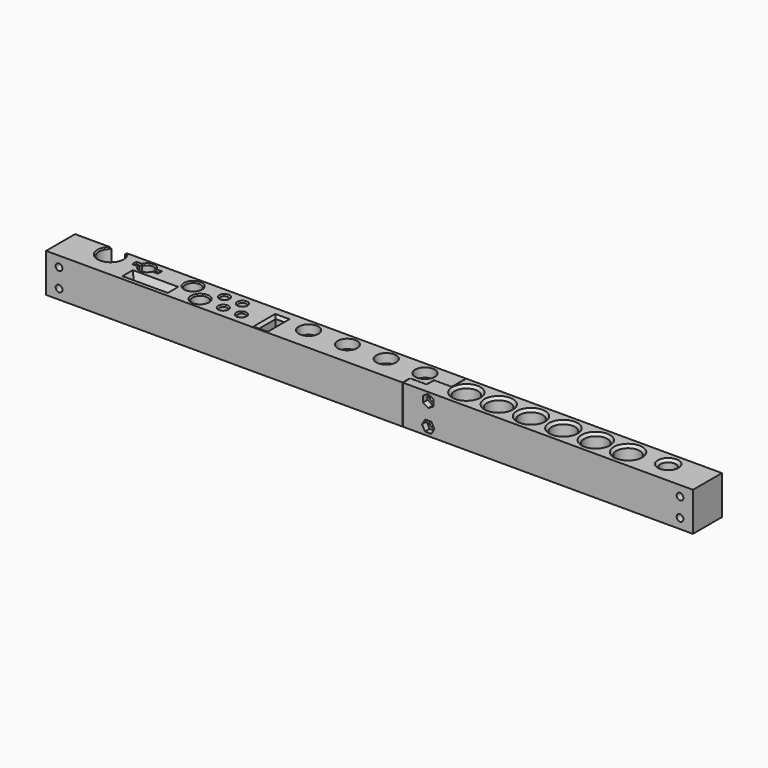
from build123d import *

# Parameters (mm, degrees)
F0_W      = 27
F0_H      = 2
F0_R      = 6
F0_R_2    = 3
F0_W_2    = 7
F0_H_2    = 17
F0_R_3    = 9
F0_W_3    = 18
F0_R_4    = 2.5
F1_DEPTH  = 30
F2_R      = 2.6
F3_DEPTH  = 28.001
F2_R_2    = 5.2
F4_DEPTH  = 8
F6_DEPTH  = 12
F5_R      = 7.625
F5_R_2    = 2.5
F7_DEPTH  = 7
F8_SIZE   = 2
F9_SIZE   = 1
F10_SIZE2 = 7
F10_SIZE  = 4.0414518843
F12_DEPTH = 30.001
F15_DEPTH = 4.5
F16_R     = 2.5
F17_DEPTH = 28.001
F13_R     = 5.125
F18_DEPTH = 6
F19_R     = 6
F19_R_2   = 3
F20_DEPTH = 1


with BuildPart() as f1:
    # F0 (on Top) → F1 (new body)
    with BuildSketch(Plane.XY):
        with BuildLine():
            Line((250, 0), (0, 0))
            Line((0, 0), (-211.3161643313, 0))
            ThreePointArc((-211.3161643313, 0), (-216.5275365114, -16.56), (-221.7389086916, 0))
            Line((-221.7389086916, 0), (-250, 0))
            Line((-250, 0), (-250, -28))
            Line((-250, -28), (0, -28))
            Line((0, -28), (250, -28))
            Line((250, -28), (250, 0))
        make_face()
        with Locations((-175.8192131519, -20)):
            Rectangle(F0_W, F0_H, mode=Mode.SUBTRACT)
        with Locations((-138.061195612, -19.0923716873)):
            Circle(F0_R, mode=Mode.SUBTRACT)
        with Locations((-120.0379803777, -19.2101737484)):
            Circle(F0_R_2, mode=Mode.SUBTRACT)
        with Locations((-106.0379803777, -19.2101737484)):
            Circle(F0_R_2, mode=Mode.SUBTRACT)
        with Locations((-84.9815678, -16.5)):
            Rectangle(F0_W_2, F0_H_2, mode=Mode.SUBTRACT)
        with Locations((63.6802911758, -14.0222376212)):
            Circle(F0_R_3, mode=Mode.SUBTRACT)
        with Locations((88.6802911758, -14.0222376212)):
            Circle(F0_R_3, mode=Mode.SUBTRACT)
        with Locations((113.6802911758, -14.0222376212)):
            Circle(F0_R_3, mode=Mode.SUBTRACT)
        with Locations((138.6802911758, -14.0222376212)):
            Circle(F0_R_3, mode=Mode.SUBTRACT)
        with Locations((163.6802911758, -14.0222376212)):
            Circle(F0_R_3, mode=Mode.SUBTRACT)
        with Locations((188.6802911758, -14.0222376212)):
            Circle(F0_R_3, mode=Mode.SUBTRACT)
        with Locations((-188.6019822359, -7.1446347758)):
            Rectangle(F0_W_3, F0_H, mode=Mode.SUBTRACT)
        with Locations((-151.8436670303, -8.6082769558)):
            Circle(F0_R, mode=Mode.SUBTRACT)
        with Locations((-128.2839030027, -7.9014841467)):
            Circle(F0_R_2, mode=Mode.SUBTRACT)
        with Locations((-114.2839030027, -7.9014841467)):
            Circle(F0_R_2, mode=Mode.SUBTRACT)
        with Locations((-61.4815678, -10)):
            Circle(F0_R_4, mode=Mode.SUBTRACT)
        with Locations((-31.4815678, -10)):
            Circle(F0_R_4, mode=Mode.SUBTRACT)
        with Locations((-1.4815678, -10)):
            Circle(F0_R_4, mode=Mode.SUBTRACT)
        with Locations((28.5184322, -10)):
            Circle(F0_R_4, mode=Mode.SUBTRACT)
        with Locations((217.3128575087, -11.0765127465)):
            Circle(F0_R, mode=Mode.SUBTRACT)
    extrude(amount=F1_DEPTH)

    # F2 (on face) → F3 (cut, through all)
    with BuildSketch(Plane(origin=(0, 0, 0), x_dir=(-1, 0, 0), z_dir=(0, 1, 0))):
        with Locations((240, 22.0997706056)):
            Circle(F2_R)
        with Locations((240, 7.5979735702)):
            Circle(F2_R)
        with Locations((-240, 7.5979735702)):
            Circle(F2_R)
        with Locations((-240, 22.0997706056)):
            Circle(F2_R)
    extrude(amount=-F3_DEPTH, mode=Mode.SUBTRACT)

    # F2 (on face) → F4 (cut)
    with BuildSketch(Plane(origin=(0, 0, 0), x_dir=(-1, 0, 0), z_dir=(0, 1, 0))):
        with Locations((-240, 22.0997706056)):
            Circle(F2_R_2)
        with Locations((-240, 22.0997706056)):
            Circle(F2_R, mode=Mode.SUBTRACT)
        with Locations((-240, 7.5979735702)):
            Circle(F2_R_2)
        with Locations((-240, 7.5979735702)):
            Circle(F2_R, mode=Mode.SUBTRACT)
        with Locations((240, 7.5979735702)):
            Circle(F2_R_2)
        with Locations((240, 7.5979735702)):
            Circle(F2_R, mode=Mode.SUBTRACT)
        with Locations((240, 22.0997706056)):
            Circle(F2_R_2)
        with Locations((240, 22.0997706056)):
            Circle(F2_R, mode=Mode.SUBTRACT)
    extrude(amount=-F4_DEPTH, mode=Mode.SUBTRACT)

    # F5 (on face) → F6 (cut)
    with BuildSketch(Plane.XY.offset(30)):
        with BuildLine():
            Line((-193.5009617215, -6.1446347758), (-183.7030027503, -6.1446347758))
            ThreePointArc((-183.7030027503, -6.1446347758), (-188.6019822359, -2.1446347758), (-193.5009617215, -6.1446347758))
        make_face()
        with BuildLine():
            ThreePointArc((-193.5009617215, -8.1446347758), (-188.6019822359, -12.1446347758), (-183.7030027503, -8.1446347758))
            Line((-183.7030027503, -8.1446347758), (-193.5009617215, -8.1446347758))
        make_face()
    extrude(amount=-F6_DEPTH, mode=Mode.SUBTRACT)

    # F5 (on face) → F7 (cut)
    with BuildSketch(Plane.XY.offset(30)):
        with Locations((-61.4815678, -10)):
            Circle(F5_R)
        with Locations((-61.4815678, -10)):
            Circle(F5_R_2, mode=Mode.SUBTRACT)
        with Locations((-31.4815678, -10)):
            Circle(F5_R)
        with Locations((-31.4815678, -10)):
            Circle(F5_R_2, mode=Mode.SUBTRACT)
        with Locations((-1.4815678, -10)):
            Circle(F5_R)
        with Locations((-1.4815678, -10)):
            Circle(F5_R_2, mode=Mode.SUBTRACT)
        with Locations((28.5184322, -10)):
            Circle(F5_R)
        with Locations((28.5184322, -10)):
            Circle(F5_R_2, mode=Mode.SUBTRACT)
    extrude(amount=-F7_DEPTH, mode=Mode.SUBTRACT)

    # F8
    f8_edges = [f1.edges().sort_by_distance(p)[0] for p in [
        (54.680291, -14.022238, 30),
        (79.680291, -14.022238, 30),
        (104.680291, -14.022238, 30),
        (129.680291, -14.022238, 30),
        (154.680291, -14.022238, 30),
        (179.680291, -14.022238, 30),
        (211.312858, -11.076513, 30),
        (-81.481568, -16.5, 30),
        (-84.981568, -25, 30),
        (-88.481568, -16.5, 30),
        (-84.981568, -8, 30),
    ]]
    chamfer(f8_edges, length=F8_SIZE)

    # F9
    f9_edges = [f1.edges().sort_by_distance(p)[0] for p in [
        (-109.03798, -19.210174, 30),
        (-123.03798, -19.210174, 30),
        (-117.283903, -7.901484, 30),
        (-131.283903, -7.901484, 30),
        (-144.061196, -19.092372, 30),
        (-157.843667, -8.608277, 30),
        (-188.601982, -12.144635, 30),
        (-188.601982, -2.144635, 30),
        (-181.652492, -6.144635, 30),
        (-179.601982, -7.144635, 30),
        (-181.652492, -8.144635, 30),
        (-195.551472, -8.144635, 30),
        (-197.601982, -7.144635, 30),
        (-195.551472, -6.144635, 30),
        (-216.527537, -16.56, 30),
    ]]
    chamfer(f9_edges, length=F9_SIZE)

    # F10
    f10_edges = [f1.edges().sort_by_distance(p)[0] for p in [
        (-162.319213, -20, 30),
        (-175.819213, -21, 30),
        (-189.319213, -20, 30),
        (-175.819213, -19, 30),
    ]]
    f10_side = f1.faces().sort_by_distance((-13.667484, -14.56727, 30))[0]
    chamfer(f10_edges, length=F10_SIZE, length2=F10_SIZE2, reference=f10_side)

    # F11 (on face) → F12 (cut, through all)
    with BuildSketch(Plane.XY.offset(30)):
        Polygon((38.5840423405, -13.8946119696), (52.394323051, -13.8946119696), (52.394323051, 6.4280540682), (52.1943233907, 6.4280540682), (52.1943233907, -13.6946123093), (38.3840426803, -13.6946123093), (38.3840426803, -20.7518879324), (25.550596416, -20.7518879324), (25.550596416, -33.4003306925), (25.7505960763, -33.4003306925), (25.7505960763, -20.9518875927), (38.5840423405, -20.9518875927), align=None)
    extrude(amount=-F12_DEPTH, mode=Mode.SUBTRACT)

    # F14 (on face) → F15 (cut)
    with BuildSketch(Plane.XZ.offset(28)):
        Polygon((49.518168503, 21.4553332942), (49.518168503, 26.2473405285), (45.368168503, 28.6433441456), (41.218168503, 26.2473405285), (41.218168503, 21.4553332942), (45.368168503, 19.059329677), align=None)
        Polygon((50.1600717822, 6.3913378192), (47.7914555179, 10.5570298777), (42.9995522388, 10.5885940502), (40.5762652239, 6.4544661643), (42.9448814882, 2.2887741059), (47.7367847673, 2.2572099333), align=None)
    extrude(amount=-F15_DEPTH, mode=Mode.SUBTRACT)

    # F16 (on face) → F17 (cut, through all)
    with BuildSketch(Plane(origin=(0, 0, 0), x_dir=(-1, 0, 0), z_dir=(0, 1, 0))):
        with Locations((-45.368168503, 23.8513369113)):
            Circle(F16_R)
        with Locations((-45.368168503, 6.4229019918)):
            Circle(F16_R)
    extrude(amount=-F17_DEPTH, mode=Mode.SUBTRACT)

    # F13 (on face) → F18 (cut)
    with BuildSketch(Plane(origin=(0, 0, 0), x_dir=(-1, 0, 0), z_dir=(0, 1, 0))):
        with Locations((-45.368168503, 23.8513369113)):
            Circle(F13_R)
        with Locations((-45.368168503, 6.4229019918)):
            Circle(F13_R)
    extrude(amount=-F18_DEPTH, mode=Mode.SUBTRACT)

    # F19 (on face) → F20 (join)
    with BuildSketch(Plane.XY):
        with Locations((-138.061195612, -19.0923716873)):
            Circle(F19_R)
        with Locations((-151.8436670303, -8.6082769558)):
            Circle(F19_R)
        with Locations((-128.2839030027, -7.9014841467)):
            Circle(F19_R_2)
        with Locations((-114.2839030027, -7.9014841467)):
            Circle(F19_R_2)
        with Locations((-106.0379803777, -19.2101737484)):
            Circle(F19_R_2)
        with Locations((-120.0379803777, -19.2101737484)):
            Circle(F19_R_2)
    extrude(amount=F20_DEPTH)


solid = f1.part
